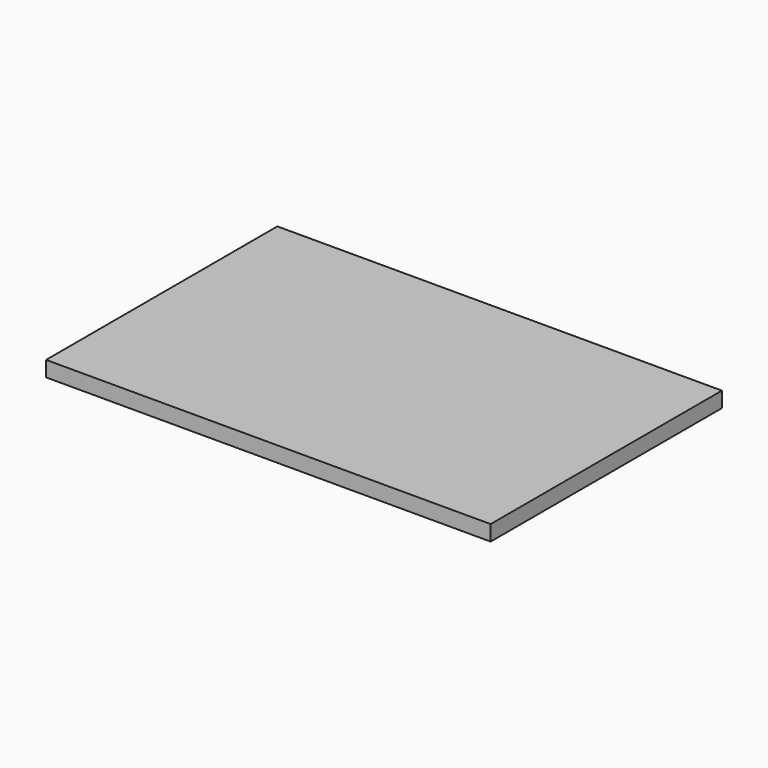
from build123d import *

# Parameters (mm, degrees)
F0_W     = 117.966231
F0_H     = 4.097548
F1_DEPTH = 38.354


with BuildPart() as f1:
    # F0 (on Front) → F1 (new body, symmetric)
    with BuildSketch(Plane.XZ):
        with Locations((3.881889, 16.49802)):
            Rectangle(F0_W, F0_H)
    extrude(amount=F1_DEPTH, both=True)


with BuildPart() as f1_1:
    # F2: moved
    add(f1.part.moved(Location((-3.81, 0, 0))))


solid = f1_1.part
